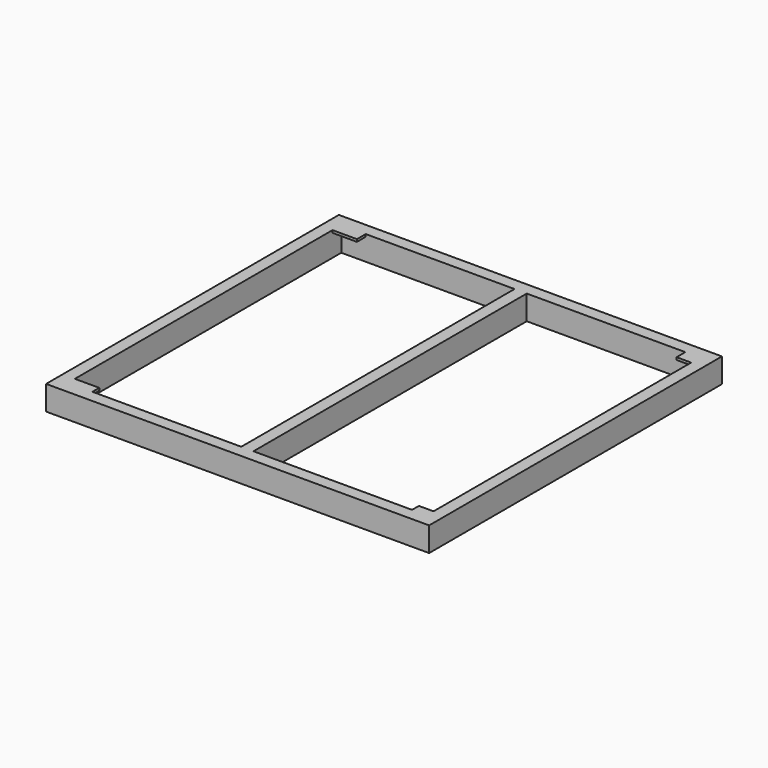
from build123d import *

# Parameters (mm, degrees)
F0_W     = 1570
F0_H     = 1500
F0_W_2   = 710
F0_H_2   = 1400
F1_DEPTH = 100
F2_W     = 100
F2_H     = 45
F2_W_2   = 60
F2_H_2   = 35
F3_DEPTH = 10


with BuildPart() as f1:
    # F0 (on Top) → F1 (new body)
    with BuildSketch(Plane.XY):
        Rectangle(F0_W, F0_H)
        with Locations((-380, 0)):
            Rectangle(F0_W_2, F0_H_2, mode=Mode.SUBTRACT)
        with Locations((380, 0)):
            Rectangle(F0_W_2, F0_H_2, mode=Mode.SUBTRACT)
    extrude(amount=F1_DEPTH)

    # F2 (on face) → F3 (join)
    with BuildSketch(Plane.XY.offset(100)):
        with Locations((-685, 677.5)):
            Rectangle(F2_W, F2_H)
        with Locations((705, 677.5)):
            Rectangle(F2_W_2, F2_H)
        with Locations((705, -682.5)):
            Rectangle(F2_W_2, F2_H_2)
        with Locations((-685, -682.5)):
            Rectangle(F2_W, F2_H_2)
    extrude(amount=-F3_DEPTH)


solid = f1.part
